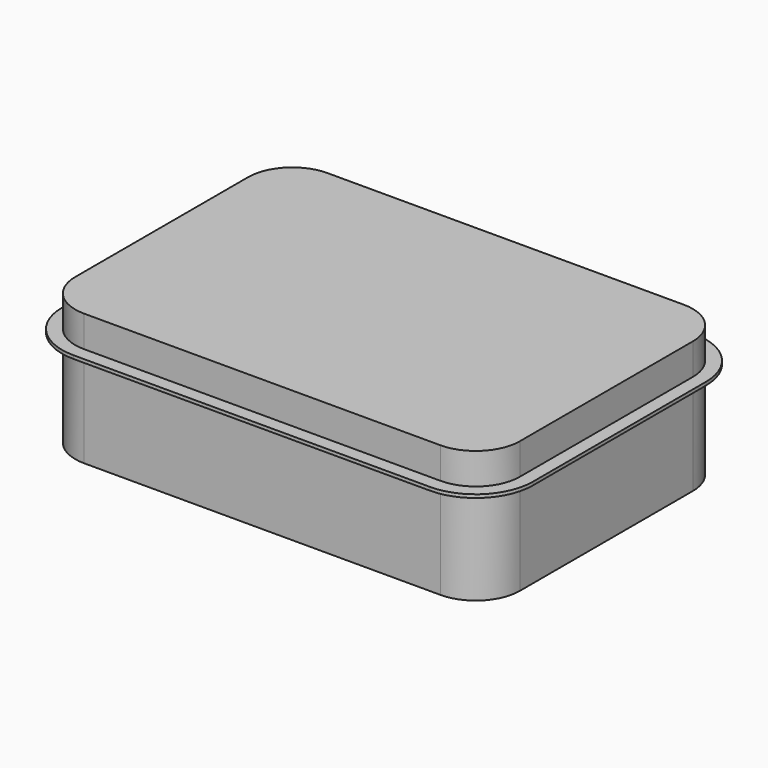
from build123d import *

# Parameters (mm, degrees)
F1_DEPTH = 2.5
F2_DEPTH = 50
F3_DEPTH = 150


with BuildPart() as f1:
    # F0 (on Top) → F1 (new body, symmetric)
    with BuildSketch(Plane.XY):
        with BuildLine():
            Line((-270.5, -251), (270.5, -251))
            ThreePointArc((270.5, -251), (332.01829, -225.51829), (357.5, -164))
            Line((357.5, -164), (357.5, 164))
            ThreePointArc((357.5, 164), (332.01829, 225.51829), (270.5, 251))
            Line((270.5, 251), (-270.5, 251))
            ThreePointArc((-270.5, 251), (-332.01829, 225.51829), (-357.5, 164))
            Line((-357.5, 164), (-357.5, -164))
            ThreePointArc((-357.5, -164), (-332.01829, -225.51829), (-270.5, -251))
        make_face()
        with BuildLine():
            ThreePointArc((337.5, -164), (317.876154, -211.376154), (270.5, -231))
            Line((270.5, -231), (-270.5, -231))
            ThreePointArc((-270.5, -231), (-317.876154, -211.376154), (-337.5, -164))
            Line((-337.5, -164), (-337.5, 164))
            ThreePointArc((-337.5, 164), (-317.876154, 211.376154), (-270.5, 231))
            Line((-270.5, 231), (270.5, 231))
            ThreePointArc((270.5, 231), (317.876154, 211.376154), (337.5, 164))
            Line((337.5, 164), (337.5, -164))
        make_face(mode=Mode.SUBTRACT)
    extrude(amount=F1_DEPTH, both=True)

    # F0 (on Top) → F2 (join)
    with BuildSketch(Plane.XY):
        with BuildLine():
            Line((-270.5, -231), (270.5, -231))
            ThreePointArc((270.5, -231), (317.876154, -211.376154), (337.5, -164))
            Line((337.5, -164), (337.5, 164))
            ThreePointArc((337.5, 164), (317.876154, 211.376154), (270.5, 231))
            Line((270.5, 231), (-270.5, 231))
            ThreePointArc((-270.5, 231), (-317.876154, 211.376154), (-337.5, 164))
            Line((-337.5, 164), (-337.5, -164))
            ThreePointArc((-337.5, -164), (-317.876154, -211.376154), (-270.5, -231))
        make_face()
    extrude(amount=F2_DEPTH)

    # F0 (on Top) → F3 (join)
    with BuildSketch(Plane.XY):
        with BuildLine():
            Line((-270.5, -231), (270.5, -231))
            ThreePointArc((270.5, -231), (317.876154, -211.376154), (337.5, -164))
            Line((337.5, -164), (337.5, 164))
            ThreePointArc((337.5, 164), (317.876154, 211.376154), (270.5, 231))
            Line((270.5, 231), (-270.5, 231))
            ThreePointArc((-270.5, 231), (-317.876154, 211.376154), (-337.5, 164))
            Line((-337.5, 164), (-337.5, -164))
            ThreePointArc((-337.5, -164), (-317.876154, -211.376154), (-270.5, -231))
        make_face()
    extrude(amount=-F3_DEPTH)


solid = f1.part
